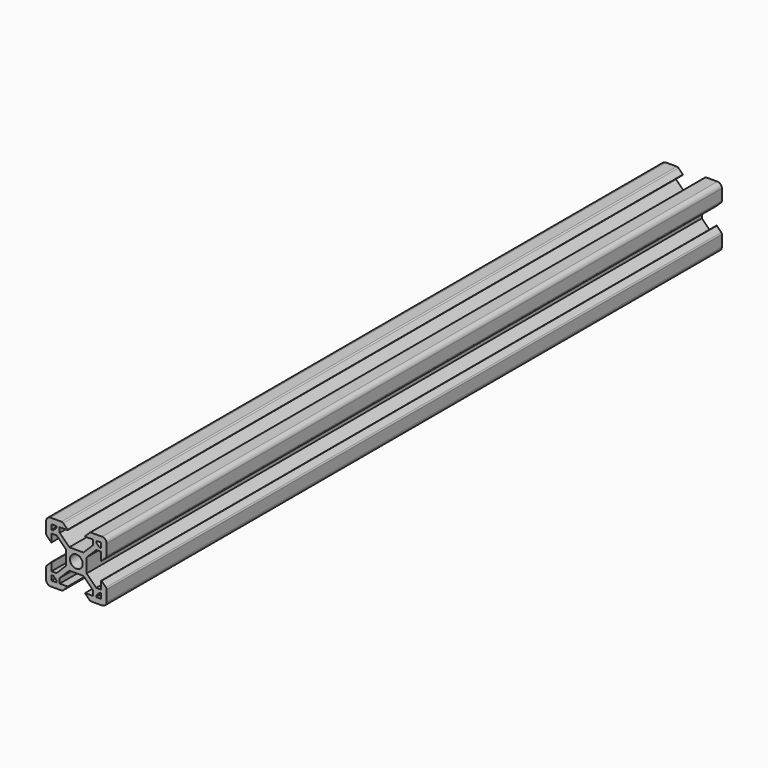
from build123d import *

# Parameters (mm, degrees)
F0_R     = 2.1
F1_DEPTH = 254


with BuildPart() as f1:
    # F0 (on Front) → F1 (new body)
    with BuildSketch(Plane.XZ):
        with BuildLine():
            Line((-123.038144, 8.423504), (-126.198804, 11.584164))
            Line((-126.198804, 11.584164), (-126.198804, 16.262844))
            Line((-126.198804, 16.262844), (-123.038144, 19.423504))
            Line((-123.038144, 19.423504), (-121.398804, 19.423504))
            Line((-121.398804, 19.423504), (-121.398804, 16.813504))
            Line((-121.398804, 16.813504), (-121.288804, 16.813504))
            Line((-121.288804, 16.813504), (-119.83019, 18.272118))
            ThreePointArc((-119.83019, 18.272118), (-119.65894, 18.528413), (-119.598804, 18.830732))
            Line((-119.598804, 18.830732), (-119.598804, 22.423504))
            ThreePointArc((-119.598804, 22.423504), (-120.038144, 23.484164), (-121.098804, 23.923504))
            Line((-121.098804, 23.923504), (-124.691576, 23.923504))
            ThreePointArc((-124.691576, 23.923504), (-124.993896, 23.863369), (-125.25019, 23.692118))
            Line((-125.25019, 23.692118), (-126.708804, 22.233504))
            Line((-126.708804, 22.233504), (-126.708804, 22.123504))
            Line((-126.708804, 22.123504), (-124.098804, 22.123504))
            Line((-124.098804, 22.123504), (-124.098804, 20.484164))
            Line((-124.098804, 20.484164), (-127.259465, 17.323504))
            Line((-127.259465, 17.323504), (-131.938144, 17.323504))
            Line((-131.938144, 17.323504), (-135.098804, 20.484164))
            Line((-135.098804, 20.484164), (-135.098804, 22.123504))
            Line((-135.098804, 22.123504), (-132.488804, 22.123504))
            Line((-132.488804, 22.123504), (-132.488804, 22.233504))
            Line((-132.488804, 22.233504), (-133.947419, 23.692118))
            ThreePointArc((-133.947419, 23.692118), (-134.203713, 23.863369), (-134.506033, 23.923504))
            Line((-134.506033, 23.923504), (-138.098804, 23.923504))
            ThreePointArc((-138.098804, 23.923504), (-139.159465, 23.484164), (-139.598804, 22.423504))
            Line((-139.598804, 22.423504), (-139.598804, 18.830732))
            ThreePointArc((-139.598804, 18.830732), (-139.538669, 18.528413), (-139.367419, 18.272118))
            Line((-139.367419, 18.272118), (-137.908804, 16.813504))
            Line((-137.908804, 16.813504), (-137.798804, 16.813504))
            Line((-137.798804, 16.813504), (-137.798804, 19.423504))
            Line((-137.798804, 19.423504), (-136.159465, 19.423504))
            Line((-136.159465, 19.423504), (-132.998804, 16.262844))
            Line((-132.998804, 16.262844), (-132.998804, 11.584164))
            Line((-132.998804, 11.584164), (-136.159465, 8.423504))
            Line((-136.159465, 8.423504), (-137.798804, 8.423504))
            Line((-137.798804, 8.423504), (-137.798804, 11.033504))
            Line((-137.798804, 11.033504), (-137.908804, 11.033504))
            Line((-137.908804, 11.033504), (-139.367419, 9.574889))
            ThreePointArc((-139.367419, 9.574889), (-139.538669, 9.318595), (-139.598804, 9.016275))
            Line((-139.598804, 9.016275), (-139.598804, 5.423504))
            ThreePointArc((-139.598804, 5.423504), (-139.159465, 4.362844), (-138.098804, 3.923504))
            Line((-138.098804, 3.923504), (-134.506033, 3.923504))
            ThreePointArc((-134.506033, 3.923504), (-134.203713, 3.983639), (-133.947419, 4.154889))
            Line((-133.947419, 4.154889), (-132.488804, 5.613504))
            Line((-132.488804, 5.613504), (-132.488804, 5.723504))
            Line((-132.488804, 5.723504), (-135.098804, 5.723504))
            Line((-135.098804, 5.723504), (-135.098804, 7.362844))
            Line((-135.098804, 7.362844), (-131.938144, 10.523504))
            Line((-131.938144, 10.523504), (-127.259465, 10.523504))
            Line((-127.259465, 10.523504), (-124.098804, 7.362844))
            Line((-124.098804, 7.362844), (-124.098804, 5.723504))
            Line((-124.098804, 5.723504), (-126.708804, 5.723504))
            Line((-126.708804, 5.723504), (-126.708804, 5.613504))
            Line((-126.708804, 5.613504), (-125.25019, 4.154889))
            ThreePointArc((-125.25019, 4.154889), (-124.993896, 3.983639), (-124.691576, 3.923504))
            Line((-124.691576, 3.923504), (-121.098804, 3.923504))
            ThreePointArc((-121.098804, 3.923504), (-120.038144, 4.362844), (-119.598804, 5.423504))
            Line((-119.598804, 5.423504), (-119.598804, 9.016275))
            ThreePointArc((-119.598804, 9.016275), (-119.65894, 9.318595), (-119.83019, 9.574889))
            Line((-119.83019, 9.574889), (-121.288804, 11.033504))
            Line((-121.288804, 11.033504), (-121.398804, 11.033504))
            Line((-121.398804, 11.033504), (-121.398804, 8.423504))
            Line((-121.398804, 8.423504), (-123.038144, 8.423504))
        make_face()
        Polygon((-137.798804, 7.353504), (-137.258804, 7.353504), (-136.168804, 6.263504), (-136.168804, 5.723504), (-137.798804, 5.723504), align=None, mode=Mode.SUBTRACT)
        Polygon((-121.938804, 7.353504), (-121.398804, 7.353504), (-121.398804, 5.723504), (-123.028804, 5.723504), (-123.028804, 6.263504), align=None, mode=Mode.SUBTRACT)
        with Locations((-129.598804, 13.923504)):
            Circle(F0_R, mode=Mode.SUBTRACT)
        Polygon((-136.168804, 22.123504), (-136.168804, 21.583504), (-137.258804, 20.493504), (-137.798804, 20.493504), (-137.798804, 22.123504), align=None, mode=Mode.SUBTRACT)
        Polygon((-123.028804, 21.583504), (-123.028804, 22.123504), (-121.398804, 22.123504), (-121.398804, 20.493504), (-121.938804, 20.493504), align=None, mode=Mode.SUBTRACT)
    extrude(amount=F1_DEPTH)


solid = f1.part
